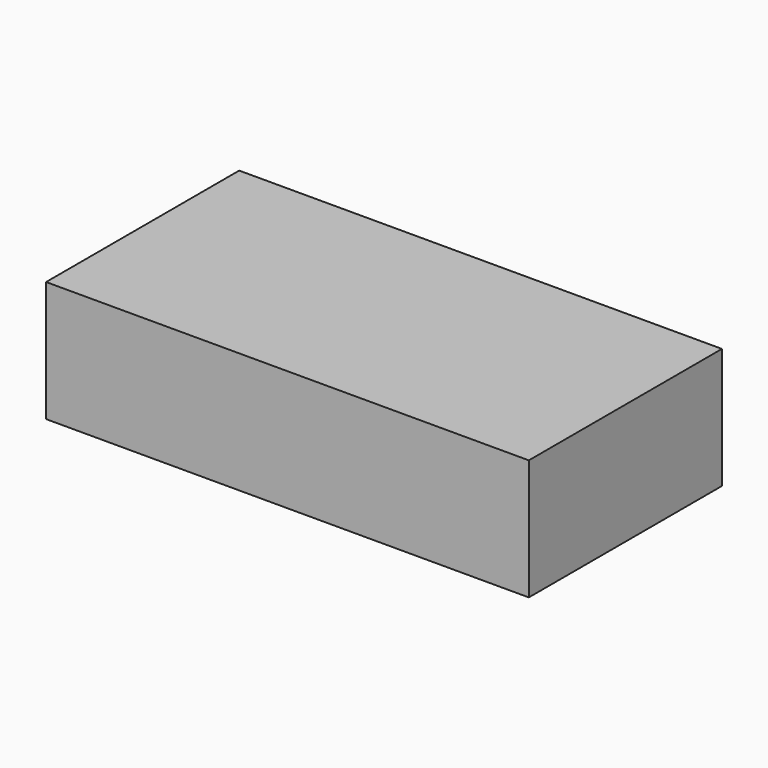
from build123d import *

# Parameters (mm, degrees)
F0_W     = 203.2
F0_H     = 101.6
F1_DEPTH = 50.8
F2_W     = 12.7
F2_H     = 6.35
F4_DEPTH = 25.4


with BuildPart() as f1:
    # F0 (on Top) → F1 (new body)
    with BuildSketch(Plane.XY):
        with Locations((10.0498665416, 18.56304156)):
            Rectangle(F0_W, F0_H)
    extrude(amount=F1_DEPTH)


with BuildPart() as f4:
    # F2 (on Right) → F4 (new body)
    with BuildSketch(Plane.YZ):
        with Locations((63.1279280245, 3.175)):
            Rectangle(F2_W, F2_H)
    extrude(amount=F4_DEPTH)


solid = f4.part
